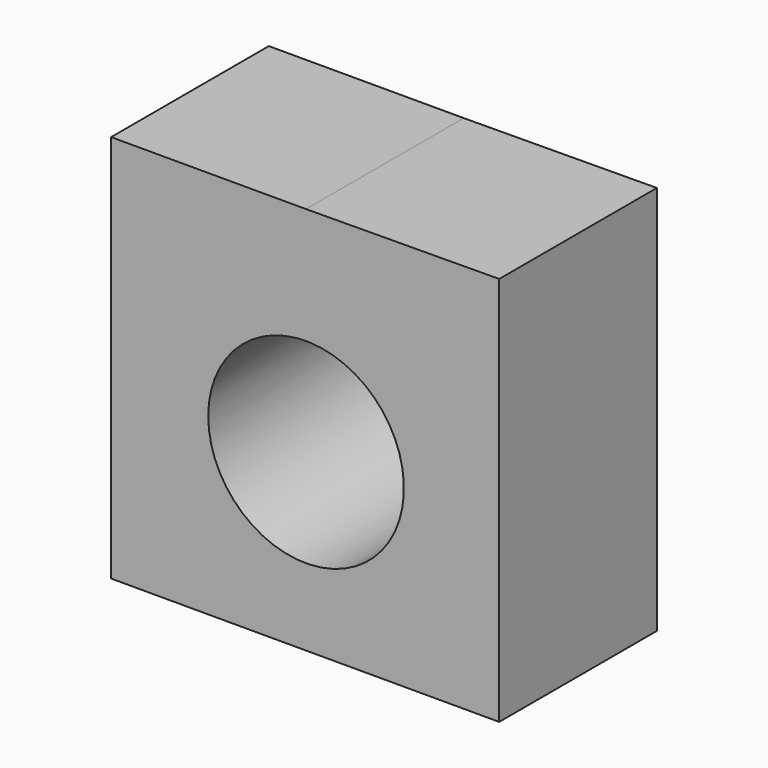
from build123d import *

# Parameters (mm, degrees)
F1_DEPTH = 76.747322
F3_D     = 76.2


with BuildPart() as f1:
    # F0 (on Front) → F1 (new body)
    with BuildSketch(Plane.XZ):
        Polygon((75.206578, 76.672986), (0, 76.159909), (-75.912133, 76.159909), (-75.912133, -75.180113), (75.206578, -75.180113), align=None)
    extrude(amount=F1_DEPTH)

    # F3 (through all)
    with Locations(Plane.XZ.offset(76.747322)):
        with Locations((0, -7.158836)):
            Hole(F3_D / 2)


solid = f1.part
